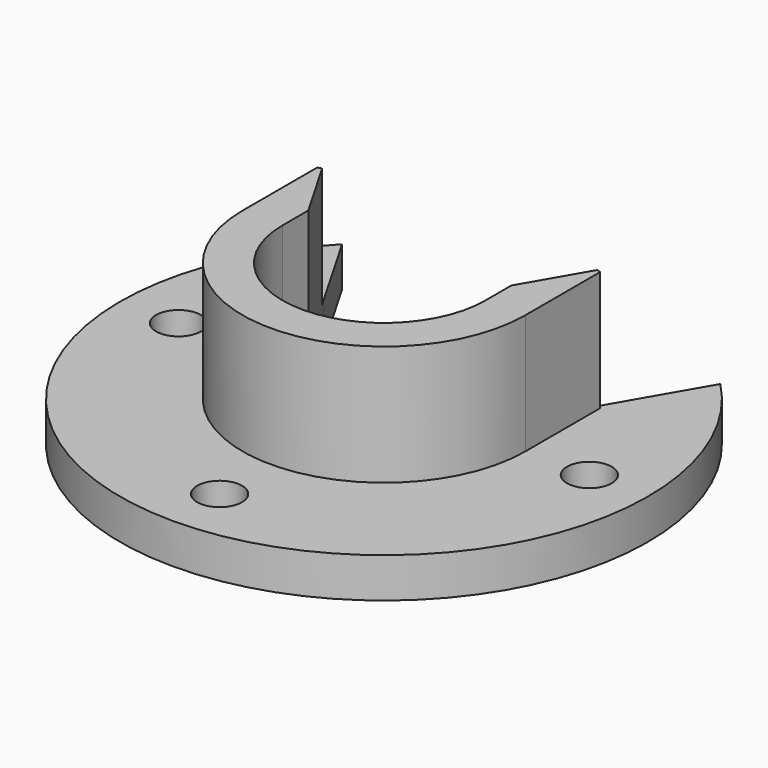
from build123d import *

# Parameters (mm, degrees)
F1_DEPTH = 2.5
F2_DEPTH = 7.5
F3_SIZE  = 0.5
F4_R     = 1.4
F5_DEPTH = 25


with BuildPart() as f1:
    # F0 (on Top) → F1 (new body)
    with BuildSketch(Plane.XY):
        with BuildLine():
            Line((11.83183, 11.514682), (8.85, 6.35))
            Line((8.85, 6.35), (8.85, 0))
            ThreePointArc((8.85, 0), (0, -8.85), (-8.85, 0))
            Line((-8.85, 0), (-8.85, 6.35))
            Line((-8.85, 6.35), (-11.83183, 11.514682))
            ThreePointArc((-11.83183, 11.514682), (0, -16.51), (11.83183, 11.514682))
        make_face()
        with BuildLine():
            Line((6.35, 2.019873), (6.35, 0))
            ThreePointArc((6.35, 0), (0, -6.35), (-6.35, 0))
            Line((-6.35, 0), (-6.35, 2.019873))
            Line((-6.35, 2.019873), (-8.85, 6.35))
            Line((-8.85, 6.35), (-8.85, 0))
            ThreePointArc((-8.85, 0), (0, -8.85), (8.85, 0))
            Line((8.85, 0), (8.85, 6.35))
            Line((8.85, 6.35), (6.35, 2.019873))
        make_face()
    extrude(amount=-F1_DEPTH)

    # F0 (on Top) → F2 (join)
    with BuildSketch(Plane.XY):
        with BuildLine():
            Line((6.35, 2.019873), (6.35, 0))
            ThreePointArc((6.35, 0), (0, -6.35), (-6.35, 0))
            Line((-6.35, 0), (-6.35, 2.019873))
            Line((-6.35, 2.019873), (-8.85, 6.35))
            Line((-8.85, 6.35), (-8.85, 0))
            ThreePointArc((-8.85, 0), (0, -8.85), (8.85, 0))
            Line((8.85, 0), (8.85, 6.35))
            Line((8.85, 6.35), (6.35, 2.019873))
        make_face()
    extrude(amount=F2_DEPTH)

    # F3
    f3_edges = [f1.edges().sort_by_distance(p)[0] for p in [
        (-8.85, 6.35, 3.75),
        (8.85, 6.35, 3.75),
    ]]
    chamfer(f3_edges, length=F3_SIZE)

    # F4 (on face) → F5 (cut)
    with BuildSketch(Plane.XY):
        with Locations((-12.85, 0)):
            Circle(F4_R)
        with Locations((12.85, 0)):
            Circle(F4_R)
        with Locations((0, -12.85)):
            Circle(F4_R)
    extrude(amount=-F5_DEPTH, mode=Mode.SUBTRACT)


solid = f1.part
